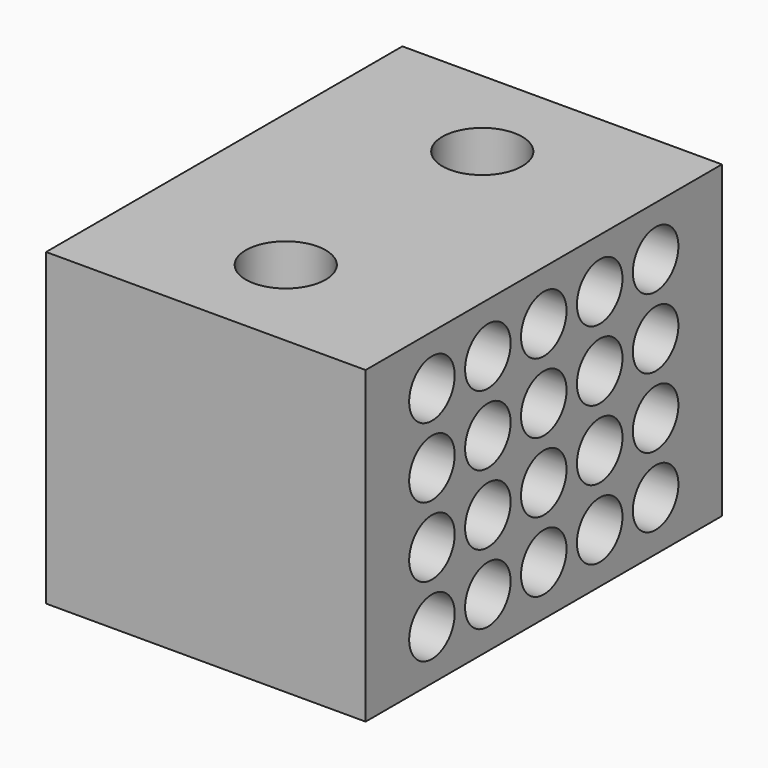
from build123d import *

# Parameters (mm, degrees)
F0_W     = 20.32
F0_H     = 28.32
F0_R     = 2.54
F1_DEPTH = 19.685
F2_R     = 1.80975
F3_DEPTH = 5.08
F4_R     = 1.80975
F5_DEPTH = 5.08


with BuildPart() as f1:
    # F0 (on Top) → F1 (new body)
    with BuildSketch(Plane.XY):
        with Locations((-10.16, 14.16)):
            Rectangle(F0_W, F0_H)
        with Locations((-10.16, 6.349)):
            Circle(F0_R, mode=Mode.SUBTRACT)
        with Locations((-10.16, 21.97)):
            Circle(F0_R, mode=Mode.SUBTRACT)
    extrude(amount=F1_DEPTH)

    # F2 (on face) → F3 (cut)
    with BuildSketch(Plane.YZ):
        with Locations((5.2705, 16.51)):
            Circle(F2_R)
        with Locations((9.7155, 16.51)):
            Circle(F2_R)
        with Locations((14.1605, 16.51)):
            Circle(F2_R)
        with Locations((18.6055, 16.51)):
            Circle(F2_R)
        with Locations((23.0505, 16.51)):
            Circle(F2_R)
        with Locations((23.0505, 12.065)):
            Circle(F2_R)
        with Locations((18.6055, 12.065)):
            Circle(F2_R)
        with Locations((14.1605, 12.065)):
            Circle(F2_R)
        with Locations((9.7155, 12.065)):
            Circle(F2_R)
        with Locations((5.2705, 12.065)):
            Circle(F2_R)
        with Locations((23.0505, 7.62)):
            Circle(F2_R)
        with Locations((18.6055, 7.62)):
            Circle(F2_R)
        with Locations((14.1605, 7.62)):
            Circle(F2_R)
        with Locations((9.7155, 7.62)):
            Circle(F2_R)
        with Locations((5.2705, 7.62)):
            Circle(F2_R)
        with Locations((23.0505, 3.175)):
            Circle(F2_R)
        with Locations((18.6055, 3.175)):
            Circle(F2_R)
        with Locations((14.1605, 3.175)):
            Circle(F2_R)
        with Locations((9.7155, 3.175)):
            Circle(F2_R)
        with Locations((5.2705, 3.175)):
            Circle(F2_R)
    extrude(amount=-F3_DEPTH, mode=Mode.SUBTRACT)

    # F4 (on face) → F5 (cut)
    with BuildSketch(Plane(origin=(-20.32, 0, 0), x_dir=(0, -1, 0), z_dir=(-1, 0, 0))):
        with Locations((-23.084547, 16.517471)):
            Circle(F4_R)
        with Locations((-18.639547, 16.517471)):
            Circle(F4_R)
        with Locations((-14.194547, 16.517471)):
            Circle(F4_R)
        with Locations((-9.749547, 16.517471)):
            Circle(F4_R)
        with Locations((-5.304547, 16.517471)):
            Circle(F4_R)
        with Locations((-5.304547, 12.072471)):
            Circle(F4_R)
        with Locations((-9.749547, 12.072471)):
            Circle(F4_R)
        with Locations((-14.194547, 12.072471)):
            Circle(F4_R)
        with Locations((-18.639547, 12.072471)):
            Circle(F4_R)
        with Locations((-23.084547, 12.072471)):
            Circle(F4_R)
        with Locations((-5.304547, 7.627471)):
            Circle(F4_R)
        with Locations((-9.749547, 7.627471)):
            Circle(F4_R)
        with Locations((-14.194547, 7.627471)):
            Circle(F4_R)
        with Locations((-18.639547, 7.627471)):
            Circle(F4_R)
        with Locations((-23.084547, 7.627471)):
            Circle(F4_R)
        with Locations((-5.304547, 3.182471)):
            Circle(F4_R)
        with Locations((-9.749547, 3.182471)):
            Circle(F4_R)
        with Locations((-14.194547, 3.182471)):
            Circle(F4_R)
        with Locations((-18.639547, 3.182471)):
            Circle(F4_R)
        with Locations((-23.084547, 3.182471)):
            Circle(F4_R)
    extrude(amount=-F5_DEPTH, mode=Mode.SUBTRACT)


solid = f1.part
